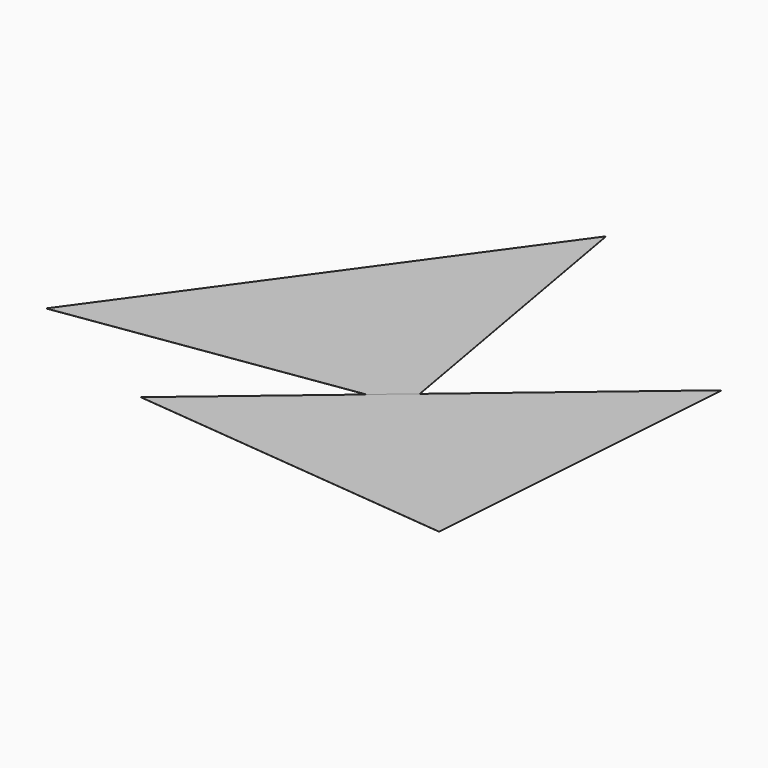
from build123d import *

# Parameters (mm, degrees)
F1_DEPTH = 1
F3_DEPTH = 1


with BuildPart() as f1:
    # F0 (on Top) → F1 (new body)
    with BuildSketch(Plane.XY):
        Polygon((-3276.8491966104, 6125.4969335074), (-6374.1021788008, 1824.680271022), (-3002.1043945424, 2326.0135704607), (-2671.8792006384, 2702.9350935378), align=None)
        Polygon((-3002.1043945424, 2326.0135704607), (-2615.4168419623, 2383.5045176647), (-2671.8792006384, 2702.9350935378), align=None)
    extrude(amount=F1_DEPTH)


with BuildPart() as f3:
    # F2 (on Top) → F3 (new body)
    with BuildSketch(Plane.XY):
        Polygon((-553.0623509462, 4411.3698755779), (-4605.1128730398, 995.1019460384), (-823.5714508497, 621.0104167839), align=None)
    extrude(amount=F3_DEPTH)


solid = Compound([f1.part, f3.part])
